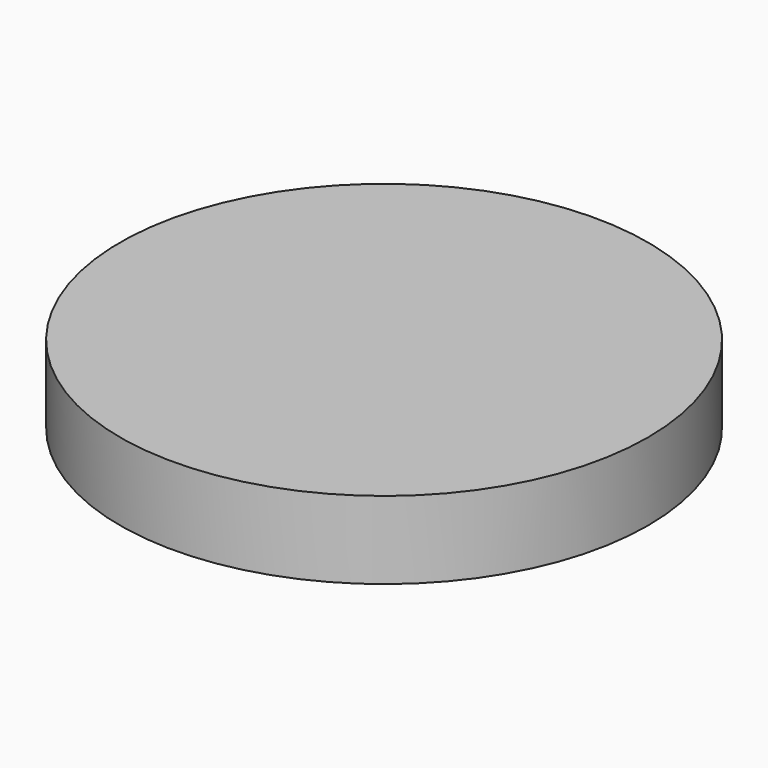
from build123d import *

# Parameters (mm, degrees)
F1_R     = 86.3882434207
F1_R_2   = 61.7649603847
F2_DEPTH = 25.4


with BuildPart() as f2:
    # F1 (on face) → F2 (new body)
    with BuildSketch(Plane.XY):
        Circle(F1_R)
        Circle(F1_R_2, mode=Mode.SUBTRACT)
        Circle(F1_R_2)
    extrude(amount=F2_DEPTH)


solid = f2.part
